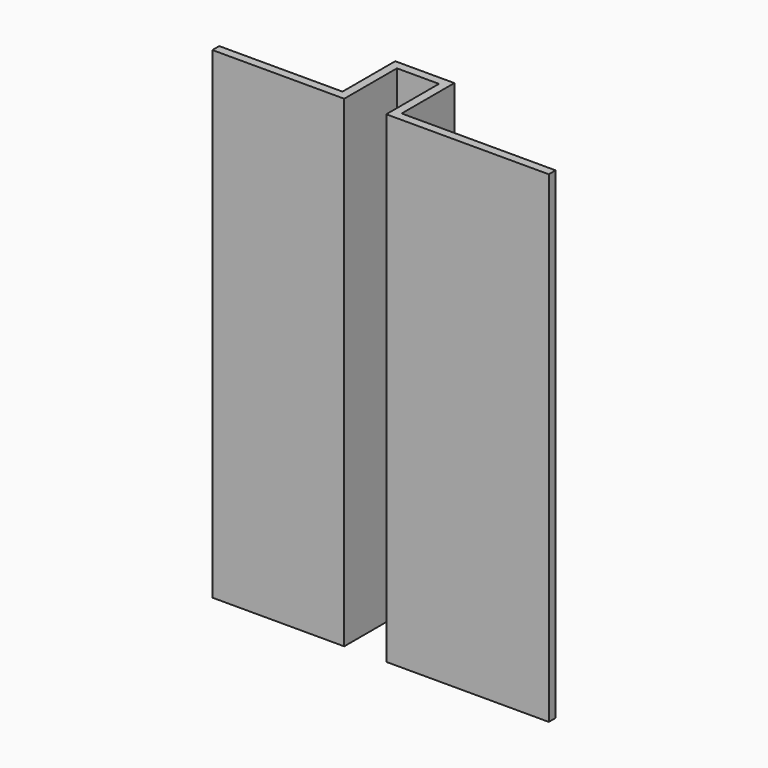
from build123d import *

# Parameters (mm, degrees)
F0_W     = 24
F0_H     = 34.397194515
F1_DEPTH = 25
F2_W     = 3
F2_H     = 34.397194515
F3_DEPTH = 4.7
F4_T     = -0.61


with BuildPart() as f1:
    # F0 (on Front) → F1 (new body)
    with BuildSketch(Plane.XZ):
        with Locations((12, 17.1985972575)):
            Rectangle(F0_W, F0_H)
    extrude(amount=F1_DEPTH)

    # F2 (on face) → F3 (cut)
    with BuildSketch(Plane.XZ.offset(25)):
        with Locations((10.9055030495, 17.1985972575)):
            Rectangle(F2_W, F2_H)
    extrude(amount=-F3_DEPTH, mode=Mode.SUBTRACT)

    # F4
    f4_openings = [f1.faces().sort_by_distance(p)[0] for p in [
        (12, 0, 17.198597),
        (0, -12.5, 17.198597),
        (12.02634, -12.255735, 0),
        (24, -12.5, 17.198597),
        (12.02634, -12.255735, 34.397195),
    ]]
    offset(amount=F4_T, openings=f4_openings, kind=Kind.INTERSECTION)


solid = f1.part
